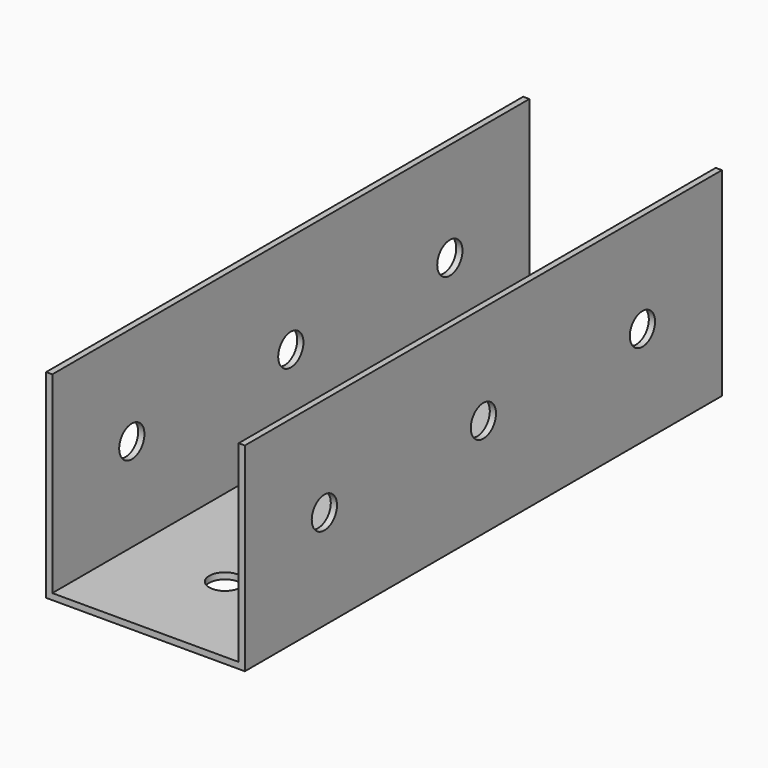
from build123d import *

# Parameters (mm, degrees)
F1_DEPTH = 96
F2_R     = 2.54
F3_DEPTH = 50.8
F4_R     = 2.54
F5_DEPTH = 50.8
F6_R     = 2.54
F7_DEPTH = 25.4


with BuildPart() as f1:
    # F0 (on Front) → F1 (new body)
    with BuildSketch(Plane.XZ):
        Polygon((-15, 15.75), (-16, 15.75), (-16, -16.25), (16, -16.25), (16, 15.75), (15, 15.75), (15, -15.25), (-15, -15.25), align=None)
    extrude(amount=F1_DEPTH)

    # F2 (on face) → F3 (cut)
    with BuildSketch(Plane(origin=(-16, 0, 0), x_dir=(0, -1, 0), z_dir=(-1, 0, 0))):
        with Locations((16, -0.25)):
            Circle(F2_R)
    extrude(amount=-F3_DEPTH, mode=Mode.SUBTRACT)

    # F4 (on face) → F5 (cut)
    with BuildSketch(Plane(origin=(-16, 0, 0), x_dir=(0, -1, 0), z_dir=(-1, 0, 0))):
        with Locations((48, -0.25)):
            Circle(F4_R)
        with Locations((48, -0.25)):
            Circle(F4_R)
        with Locations((80, -0.25)):
            Circle(F4_R)
    extrude(amount=-F5_DEPTH, mode=Mode.SUBTRACT)

    # F6 (on face) → F7 (cut)
    with BuildSketch(Plane(origin=(0, 0, -16.25), x_dir=(1, 0, 0), z_dir=(0, 0, -1))):
        with Locations((0, 80)):
            Circle(F6_R)
        with Locations((0, 80)):
            Circle(F6_R)
        with Locations((0, 48)):
            Circle(F6_R)
        with Locations((0, 16)):
            Circle(F6_R)
    extrude(amount=-F7_DEPTH, mode=Mode.SUBTRACT)


solid = f1.part
